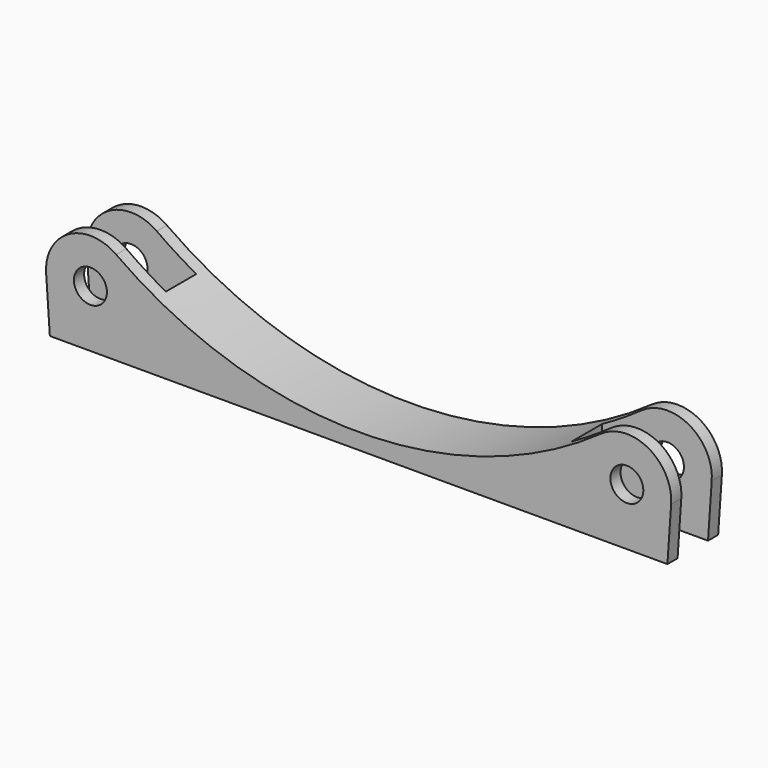
from build123d import *

# Parameters (mm, degrees)
SKETCH_R     = 2.6
PAD_DEPTH    = 10
SKETCH002_W  = 6
SKETCH002_H  = 19.473974
POCKET_DEPTH = 18


with BuildPart() as part:
    # Sketch → Pad (new body)
    with BuildSketch(Plane.XZ):
        with BuildLine():
            ThreePointArc((-38.238064, 14.705479), (0, 2.5), (38.238064, 14.705479))
            ThreePointArc((49.277108, 8.519541), (45.715556, 15.106581), (38.238064, 14.705479))
            Line((49.277108, 8.519541), (48.69097, 0))
            Line((-48.69097, 0), (48.69097, 0))
            Line((-49.277108, 8.519541), (-48.69097, 0))
            ThreePointArc((-38.238064, 14.705479), (-45.715556, 15.106581), (-49.277108, 8.519541))
        make_face()
        with Locations((-42.293617, 9)):
            Circle(SKETCH_R, mode=Mode.SUBTRACT)
        with Locations((42.293617, 9)):
            Circle(SKETCH_R, mode=Mode.SUBTRACT)
    extrude(amount=PAD_DEPTH)

    # Sketch002 (on DatumPlane) → Pocket (cut)
    with BuildSketch(Plane.YZ.offset(50)):
        with Locations((-5, 8.823125)):
            Rectangle(SKETCH002_W, SKETCH002_H)
    pocket = extrude(amount=-POCKET_DEPTH, mode=Mode.SUBTRACT)

    # Mirrored: Pocket across YZ
    add(pocket.mirror(Plane.YZ), mode=Mode.SUBTRACT)


solid = part.part
